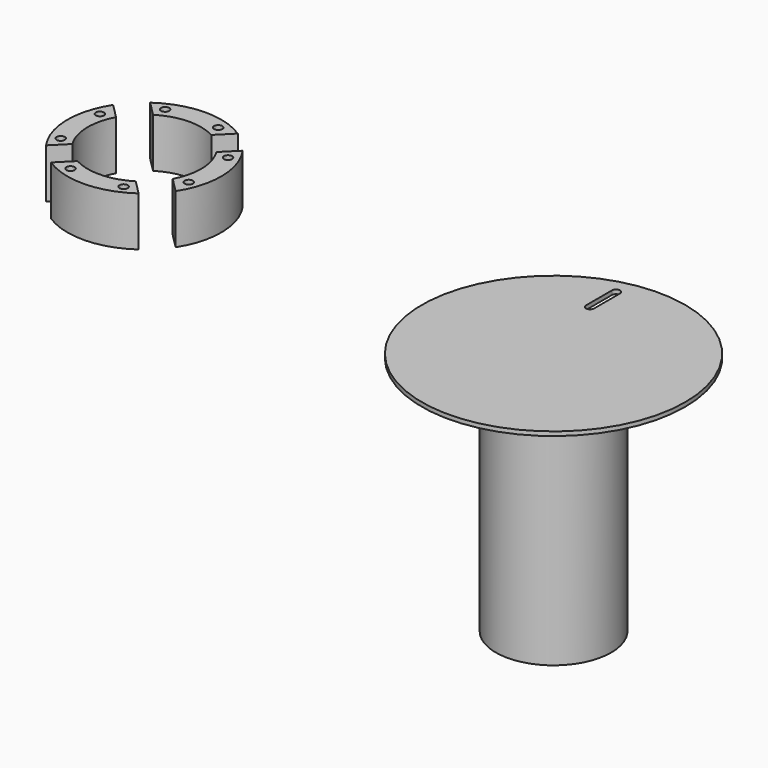
from build123d import *

# Parameters (mm, degrees)
F0_R     = 44.5135
F1_DEPTH = 185.42
F2_R     = 101.6
F3_DEPTH = 3.175
F4_R     = 3.175
F5_DEPTH = 38.1


with BuildPart() as f1:
    # F0 (on Top) → F1 (new body)
    with BuildSketch(Plane.XY):
        Circle(F0_R)
    extrude(amount=-F1_DEPTH)


with BuildPart() as f3:
    # F2 (on Top) → F3 (new body)
    with BuildSketch(Plane.XY):
        Circle(F2_R)
        with BuildLine():
            Line((-23.990947, 61.195665), (-23.990947, 86.595665))
            ThreePointArc((-23.990947, 86.595665), (-20.667868, 89.436229), (-17.658157, 86.265534))
            Line((-17.658157, 86.265534), (-17.658157, 60.865534))
            ThreePointArc((-17.658157, 60.865534), (-20.981237, 58.02497), (-23.990947, 61.195665))
        make_face(mode=Mode.SUBTRACT)
    extrude(amount=F3_DEPTH)


with BuildPart() as f5:
    # F4 (on Top) → F5 (new body)
    with BuildSketch(Plane.XY):
        with BuildLine():
            ThreePointArc((-413.555201, 92.301098), (-423.014232, 58.864802), (-412.119525, 25.868369))
            Line((-412.119525, 25.868369), (-400.877388, 37.110507))
            ThreePointArc((-400.877388, 37.110507), (-407.432908, 58.850423), (-402.200163, 80.946061))
            Line((-402.200163, 80.946061), (-413.555201, 92.301098))
        make_face()
        with Locations((-410.878425, 38.42488)):
            Circle(F4_R, mode=Mode.SUBTRACT)
        with Locations((-412.403975, 78.138972)):
            Circle(F4_R, mode=Mode.SUBTRACT)
        with BuildLine():
            ThreePointArc((-331.563365, 109.983229), (-364.999661, 119.442261), (-397.996094, 108.547554))
            Line((-397.996094, 108.547554), (-386.753956, 97.305417))
            ThreePointArc((-386.753956, 97.305417), (-365.01404, 103.860937), (-342.918402, 98.628192))
            Line((-342.918402, 98.628192), (-331.563365, 109.983229))
        make_face()
        with Locations((-385.400597, 107.299804)):
            Circle(F4_R, mode=Mode.SUBTRACT)
        with Locations((-345.686504, 108.825354)):
            Circle(F4_R, mode=Mode.SUBTRACT)
        with BuildLine():
            ThreePointArc((-313.881234, 27.991393), (-304.422202, 61.42769), (-315.316909, 94.424123))
            Line((-315.316909, 94.424123), (-326.559046, 83.181985))
            ThreePointArc((-326.559046, 83.181985), (-320.003526, 61.442068), (-325.236271, 39.346431))
            Line((-325.236271, 39.346431), (-313.881234, 27.991393))
        make_face()
        with Locations((-315.000124, 42.107883)):
            Circle(F4_R, mode=Mode.SUBTRACT)
        with Locations((-316.525673, 81.821976)):
            Circle(F4_R, mode=Mode.SUBTRACT)
        with BuildLine():
            ThreePointArc((-395.87307, 10.309262), (-362.436773, 0.850231), (-329.44034, 11.744938))
            Line((-329.44034, 11.744938), (-340.682478, 22.987075))
            ThreePointArc((-340.682478, 22.987075), (-362.422395, 16.431555), (-384.518032, 21.6643))
            Line((-384.518032, 21.6643), (-395.87307, 10.309262))
        make_face()
        with Locations((-381.717594, 11.421502)):
            Circle(F4_R, mode=Mode.SUBTRACT)
        with Locations((-342.003501, 12.947052)):
            Circle(F4_R, mode=Mode.SUBTRACT)
    extrude(amount=-F5_DEPTH)


solid = Compound([f1.part, f3.part, f5.part])
